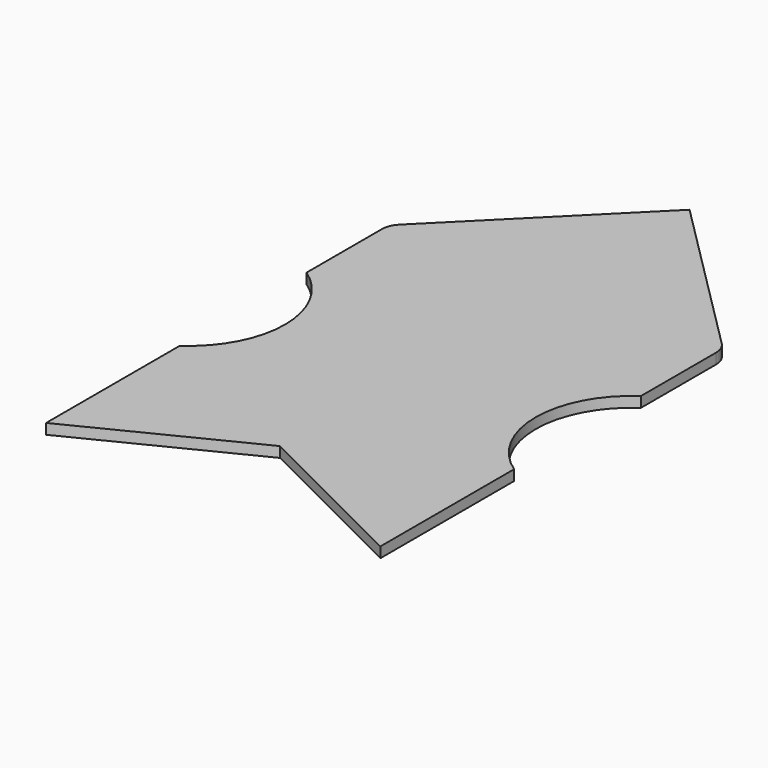
from build123d import *

# Parameters (mm, degrees)
F1_DEPTH = 3.175


with BuildPart() as f1:
    # F0 (on Top) → F1 (new body)
    with BuildSketch(Plane.XY):
        with BuildLine():
            Line((3.553279, -5.090653), (54.353279, -30.490653))
            Line((54.353279, -30.490653), (54.353279, 20.309347))
            ThreePointArc((54.353279, 20.309347), (41.653279, 44.394219), (54.353279, 68.479091))
            Line((54.353279, 68.479091), (54.353279, 97.054091))
            ThreePointArc((54.353279, 97.054091), (54.209052, 98.399784), (53.78292, 99.684347))
            Line((53.78292, 99.684347), (-46.676362, 99.684347))
            ThreePointArc((-46.676362, 99.684347), (-47.102493, 98.399784), (-47.246721, 97.054091))
            Line((-47.246721, 97.054091), (-47.246721, 68.479091))
            ThreePointArc((-47.246721, 68.479091), (-34.546721, 44.394219), (-47.246721, 20.309347))
            Line((-47.246721, 20.309347), (-47.246721, -30.490653))
            Line((-47.246721, -30.490653), (3.553279, -5.090653))
        make_face()
        with BuildLine():
            Line((-46.676362, 99.684347), (53.78292, 99.684347))
            ThreePointArc((53.78292, 99.684347), (53.221691, 100.672195), (52.493407, 101.544219))
            Line((52.493407, 101.544219), (3.553279, 150.484347))
            Line((3.553279, 150.484347), (-45.386849, 101.544219))
            ThreePointArc((-45.386849, 101.544219), (-46.115133, 100.672195), (-46.676362, 99.684347))
        make_face()
    extrude(amount=F1_DEPTH)


solid = f1.part
